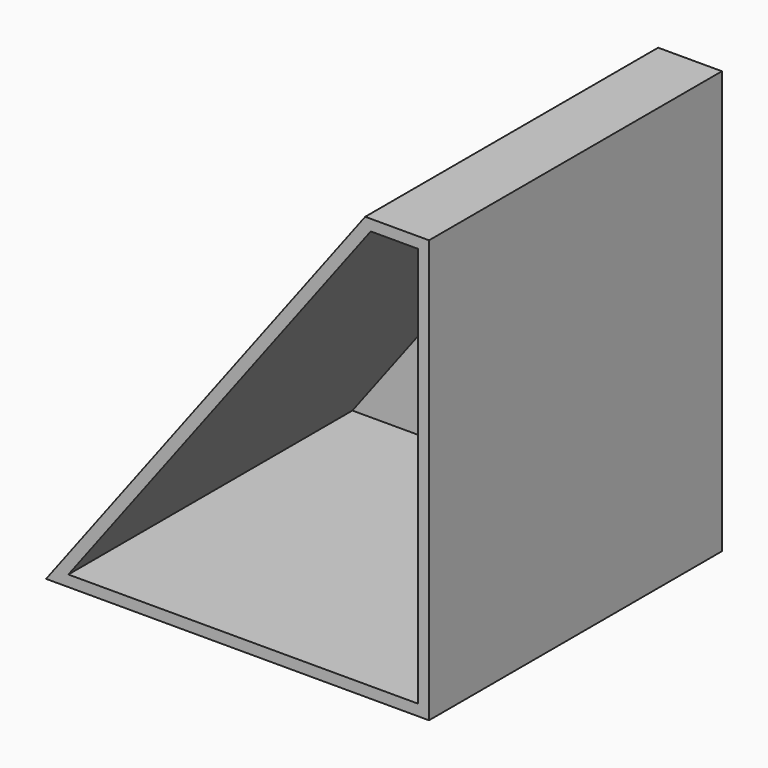
from build123d import *

# Parameters (mm, degrees)
F2_DEPTH = 6.35
F4_DEPTH = 203.2


with BuildPart() as f2:
    # F1 (on Front) → F2 (new body)
    with BuildSketch(Plane.XZ):
        Polygon((-36.510564, 374.367909), (-219.162132, 132.508471), (0, 132.508471), (0, 374.367909), align=None)
    extrude(amount=F2_DEPTH)

    # F3 (on face) → F4 (join)
    with BuildSketch(Plane.XZ.offset(6.35)):
        Polygon((-36.510564, 374.367909), (-219.162132, 132.508471), (0, 132.508471), (0, 374.367909), align=None)
        Polygon((-206.409285, 138.858471), (-33.348721, 368.017909), (-6.35, 368.017909), (-6.35, 138.858471), align=None, mode=Mode.SUBTRACT)
    extrude(amount=F4_DEPTH)


solid = f2.part
